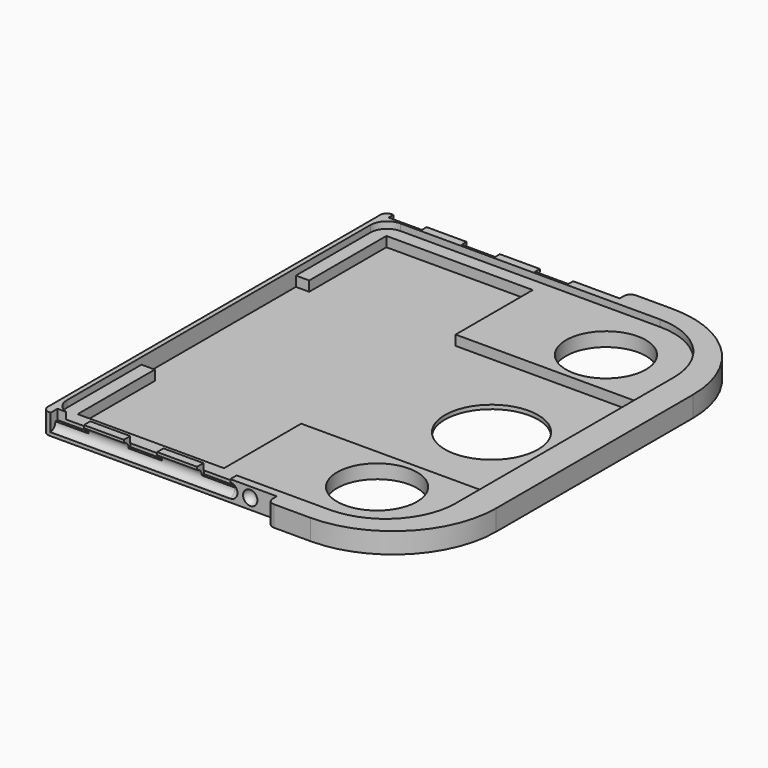
from build123d import *

# Parameters (mm, degrees)
CYLINDER_R        = 1.1
CYLINDER_DEPTH    = 27
ARRAY018_Y_COUNT  = 2
ARRAY018_Y_PITCH  = 64.8
BOX_W             = 5
BOX_H             = 2.6
BOX_DEPTH         = 10
ARRAY019_X_COUNT  = 3
ARRAY019_X_PITCH  = 11
ARRAY019_Y_COUNT  = 2
ARRAY019_Y_PITCH  = 64.8
ARRAY017_X_COUNT  = 2
ARRAY017_X_PITCH  = 3
ARRAY017_Y_COUNT  = 2
ARRAY017_Y_PITCH  = 64.8
BOX030_W          = 1.8
BOX030_H          = 68
BOX030_DEPTH      = 10
BOX029_W          = 37
BOX029_H          = 1.8
BOX029_DEPTH      = 10
ARRAY016_Y_COUNT  = 2
ARRAY016_Y_PITCH  = 66.2
CYLINDER021_R     = 6
CYLINDER021_DEPTH = 10
CYLINDER022_R     = 7
CYLINDER022_DEPTH = 10
CYLINDER020_R     = 6
CYLINDER020_DEPTH = 10
BOX028_W          = 22
BOX028_H          = 58
BOX028_DEPTH      = 1.5
BOX027_W          = 52
BOX027_H          = 29
BOX027_DEPTH      = 1.5
BOX026_W          = 52
BOX026_H          = 62
BOX026_DEPTH      = 1
FILLET018_R       = 2.5
FILLET019_R       = 10.5
CYLINDER019_W     = 15.5
CYLINDER019_H     = 3.1
CYLINDER019_ANGLE = 90
BOX024_W          = 15.5
BOX024_H          = 37
BOX024_DEPTH      = 3.1
BOX025_W          = 43.5
BOX025_H          = 68
BOX025_DEPTH      = 3.1
FILLET017_R       = 2
CYLINDER018_W     = 15.5
CYLINDER018_H     = 3.1
CYLINDER018_ANGLE = 90
FILLET020_R       = 1


with BuildPart() as array018:
    # Cylinder → Cylinder (new body)
    with BuildSketch(Plane(origin=(-40.5, -32.4, 0.2), x_dir=(0, 0, -1), z_dir=(1, 0, 0))):
        Circle(CYLINDER_R)
    extrude(amount=CYLINDER_DEPTH)

    # Array018 Y: Array018 ×2


with BuildPart() as array018_1:
    add(array018.part)
    with Locations(*[(0, i * ARRAY018_Y_PITCH, 0) for i in range(1, ARRAY018_Y_COUNT)]):
        add(array018.part)


with BuildPart() as array019:
    # Box → Box (new body)
    with BuildSketch(Plane(origin=(-18.5, -33.5, 0.2), x_dir=(1, 0, 0), z_dir=(0, 0, 1))):
        with Locations((2.5, 1.3)):
            Rectangle(BOX_W, BOX_H)
    extrude(amount=BOX_DEPTH)

    # Array019 X: Array019 ×3


with BuildPart() as array019_1:
    add(array019.part)
    with Locations(*[(-i * ARRAY019_X_PITCH, 0, 0) for i in range(1, ARRAY019_X_COUNT)]):
        add(array019.part)

    # Array019 Y: Array019 ×2


with BuildPart() as array019_2:
    add(array019_1.part)
    with Locations(*[(0, i * ARRAY019_Y_PITCH, 0) for i in range(1, ARRAY019_Y_COUNT)]):
        add(array019_1.part)


with BuildPart() as obj1:
    # Sphere001 → Sphere001 (revolve)
    with BuildSketch(Plane(origin=(-10.5, -32.4, 0.2), x_dir=(1, 0, 0), z_dir=(0, -1, 0))):
        with BuildLine():
            ThreePointArc((0, -1.1), (1.1, 0), (0, 1.1))
            Line((0, 1.1), (0, -1.1))
        make_face()
    revolve(axis=Axis((-10.5, -32.4, 0.2), (0, 0, 1)))

    # Array017 X: obj1_2


with BuildPart() as obj1_1:
    add(obj1.part)
    with Locations(*[(-i * ARRAY017_X_PITCH, 0, 0) for i in range(1, ARRAY017_X_COUNT)]):
        add(obj1.part)

    # Array017 Y: obj1_2


with BuildPart() as obj1_2:
    add(obj1_1.part)
    with Locations(*[(0, i * ARRAY017_Y_PITCH, 0) for i in range(1, ARRAY017_Y_COUNT)]):
        add(obj1_1.part)

    # Fusion013: union Array018, Array019
    add(array018_1.part)
    add(array019_2.part)


with BuildPart() as obj2:
    # Box030 → Box030 (new body)
    with BuildSketch(Plane(origin=(-43.5, -34, -1.4), x_dir=(1, 0, 0), z_dir=(0, 0, 1))):
        with Locations((0.9, 34)):
            Rectangle(BOX030_W, BOX030_H)
    extrude(amount=BOX030_DEPTH)


with BuildPart() as obj3:
    # Box029 → Box029 (new body)
    with BuildSketch(Plane(origin=(-43.5, -34, -1.4), x_dir=(1, 0, 0), z_dir=(0, 0, 1))):
        with Locations((18.5, 0.9)):
            Rectangle(BOX029_W, BOX029_H)
    extrude(amount=BOX029_DEPTH)

    # Array016 Y: obj3 ×2


with BuildPart() as obj3_1:
    add(obj3.part)
    with Locations(*[(0, i * ARRAY016_Y_PITCH, 0) for i in range(1, ARRAY016_Y_COUNT)]):
        add(obj3.part)

    # Fusion012: union obj2
    add(obj2.part)


with BuildPart() as obj4:
    # Cylinder021 → Cylinder021 (new body)
    with BuildSketch(Plane(origin=(0, 21.5, -3), x_dir=(1, 0, 0), z_dir=(0, 0, 1))):
        Circle(CYLINDER021_R)
    extrude(amount=CYLINDER021_DEPTH)


with BuildPart() as obj5:
    # Cylinder022 → Cylinder022 (new body)
    with BuildSketch(Plane.XY.offset(-3)):
        Circle(CYLINDER022_R)
    extrude(amount=CYLINDER022_DEPTH)


with BuildPart() as obj6:
    # Cylinder020 → Cylinder020 (new body)
    with BuildSketch(Plane(origin=(0, -21.5, -3), x_dir=(1, 0, 0), z_dir=(0, 0, 1))):
        Circle(CYLINDER020_R)
    extrude(amount=CYLINDER020_DEPTH)

    # Fusion009: union obj4, obj5
    add(obj4.part)
    add(obj5.part)


with BuildPart() as partcut2:
    # Box028 → Box028 (new body)
    with BuildSketch(Plane(origin=(-39, -29, -0.8), x_dir=(1, 0, 0), z_dir=(0, 0, 1))):
        with Locations((11, 29)):
            Rectangle(BOX028_W, BOX028_H)
    extrude(amount=BOX028_DEPTH)


with BuildPart() as partcuts:
    # Box027 → Box027 (new body)
    with BuildSketch(Plane(origin=(-41, -14.5, -0.8), x_dir=(1, 0, 0), z_dir=(0, 0, 1))):
        with Locations((26, 14.5)):
            Rectangle(BOX027_W, BOX027_H)
    extrude(amount=BOX027_DEPTH)

    # Fusion008: union PartCut2
    add(partcut2.part)


with BuildPart() as fillet019:
    # Box026 → Box026 (new body)
    with BuildSketch(Plane(origin=(-41, -31, 0.7), x_dir=(1, 0, 0), z_dir=(0, 0, 1))):
        with Locations((26, 31)):
            Rectangle(BOX026_W, BOX026_H)
    extrude(amount=BOX026_DEPTH)

    # Fillet018
    fillet018_edges = [fillet019.edges().sort_by_distance(p)[0] for p in [
        (-41, -31, 1.2),
        (-41, 31, 1.2),
    ]]
    fillet(fillet018_edges, radius=FILLET018_R)

    # Fillet019
    fillet019_edges = [fillet019.edges().sort_by_distance(p)[0] for p in [
        (11, -31, 1.2),
        (11, 31, 1.2),
    ]]
    fillet(fillet019_edges, radius=FILLET019_R)


with BuildPart() as obj7:
    # Cylinder019 → Cylinder019 (revolve)
    with BuildSketch(Plane(origin=(0, -18.5, -1.4), x_dir=(0, -1, 0), z_dir=(-1, 0, 0))):
        with Locations((7.75, 1.55)):
            Rectangle(CYLINDER019_W, CYLINDER019_H)
    revolve(axis=Axis((0, -18.5, -1.4), (0, 0, 1)), revolution_arc=CYLINDER019_ANGLE)


with BuildPart() as obj8:
    # Box024 → Box024 (new body)
    with BuildSketch(Plane(origin=(0, -18.5, -1.4), x_dir=(1, 0, 0), z_dir=(0, 0, 1))):
        with Locations((7.75, 18.5)):
            Rectangle(BOX024_W, BOX024_H)
    extrude(amount=BOX024_DEPTH)


with BuildPart() as fillet017:
    # Box025 → Box025 (new body)
    with BuildSketch(Plane(origin=(-43.5, -34, -1.4), x_dir=(1, 0, 0), z_dir=(0, 0, 1))):
        with Locations((21.75, 34)):
            Rectangle(BOX025_W, BOX025_H)
    extrude(amount=BOX025_DEPTH)

    # Fillet017
    fillet017_edges = [fillet017.edges().sort_by_distance(p)[0] for p in [
        (-43.5, -34, 0.15),
        (-43.5, 34, 0.15),
    ]]
    fillet(fillet017_edges, radius=FILLET017_R)


with BuildPart() as obj9:
    # Cylinder018 → Cylinder018 (revolve)
    with BuildSketch(Plane(origin=(0, 18.5, -1.4), x_dir=(1, 0, 0), z_dir=(0, -1, 0))):
        with Locations((7.75, 1.55)):
            Rectangle(CYLINDER018_W, CYLINDER018_H)
    revolve(axis=Axis((0, 18.5, -1.4), (0, 0, 1)), revolution_arc=CYLINDER018_ANGLE)

    # Fusion007: union obj7, obj8, Fillet017
    add(obj7.part)
    add(obj8.part)
    add(fillet017.part)

    # Cut030: cut Fillet019
    add(fillet019.part, mode=Mode.SUBTRACT)

    # Cut031: cut PartCuts
    add(partcuts.part, mode=Mode.SUBTRACT)

    # Cut032: cut obj6
    add(obj6.part, mode=Mode.SUBTRACT)

    # Cut033: cut obj3
    add(obj3_1.part, mode=Mode.SUBTRACT)

    # Fillet020
    fillet020_edges = [obj9.edges().sort_by_distance(p)[0] for p in [
        (-6.5, 34, 0.15),
        (-6.5, -34, 0.15),
        (-41.7, -32.2, 0.15),
        (-41.7, 32.2, 0.15),
    ]]
    fillet(fillet020_edges, radius=FILLET020_R)

    # Cut: cut obj1
    add(obj1_2.part, mode=Mode.SUBTRACT)


solid = obj9.part
